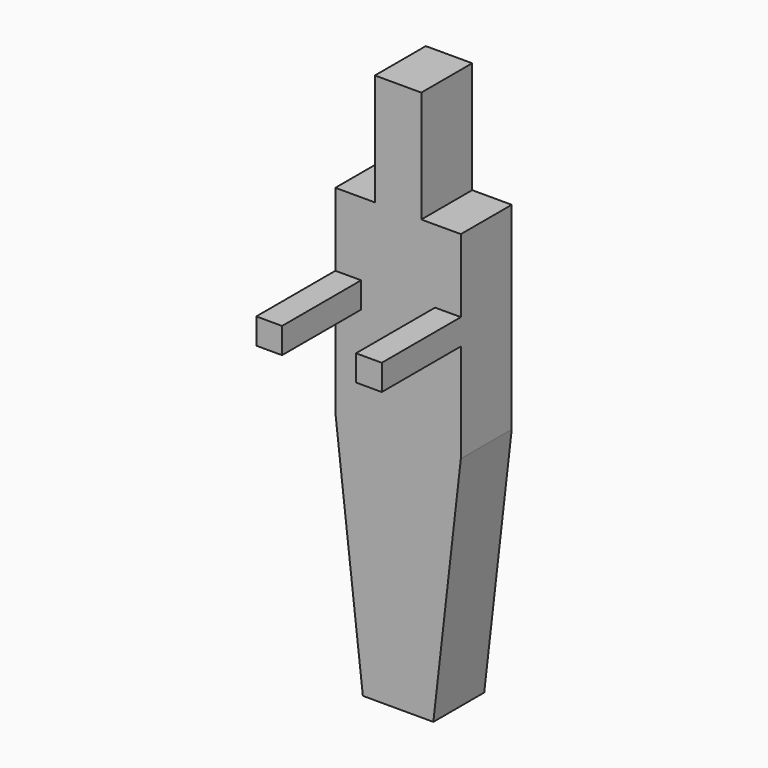
from build123d import *

# Parameters (mm, degrees)
F0_W     = 365
F0_H     = 185
F1_DEPTH = 1600
F2_W     = 75
F2_H     = 75
F3_DEPTH = 380
F4_W     = 115
F4_H     = 185
F5_DEPTH = 325
F7_DEPTH = 185.001


with BuildPart() as f1:
    # F0 (on Top) → F1 (new body)
    with BuildSketch(Plane.XY):
        Rectangle(F0_W, F0_H)
    extrude(amount=F1_DEPTH)

    # F2 (on Front) → F3 (join)
    with BuildSketch(Plane.XZ):
        with Locations((-145, 1025)):
            Rectangle(F2_W, F2_H)
        with Locations((145, 1025)):
            Rectangle(F2_W, F2_H)
    extrude(amount=F3_DEPTH)

    # F4 (on face) → F5 (cut)
    with BuildSketch(Plane.XY.offset(1600)):
        with Locations((-125, 0)):
            Rectangle(F4_W, F4_H)
        with Locations((125, 0)):
            Rectangle(F4_W, F4_H)
    extrude(amount=-F5_DEPTH, mode=Mode.SUBTRACT)

    # F6 (on face) → F7 (cut, through all)
    with BuildSketch(Plane.XZ.offset(92.5)):
        Polygon((-102.5, 0), (-182.5, 700), (-182.5, 0), align=None)
        Polygon((182.5, 0), (182.5, 700), (102.5, 0), align=None)
    extrude(amount=-F7_DEPTH, mode=Mode.SUBTRACT)


solid = f1.part
